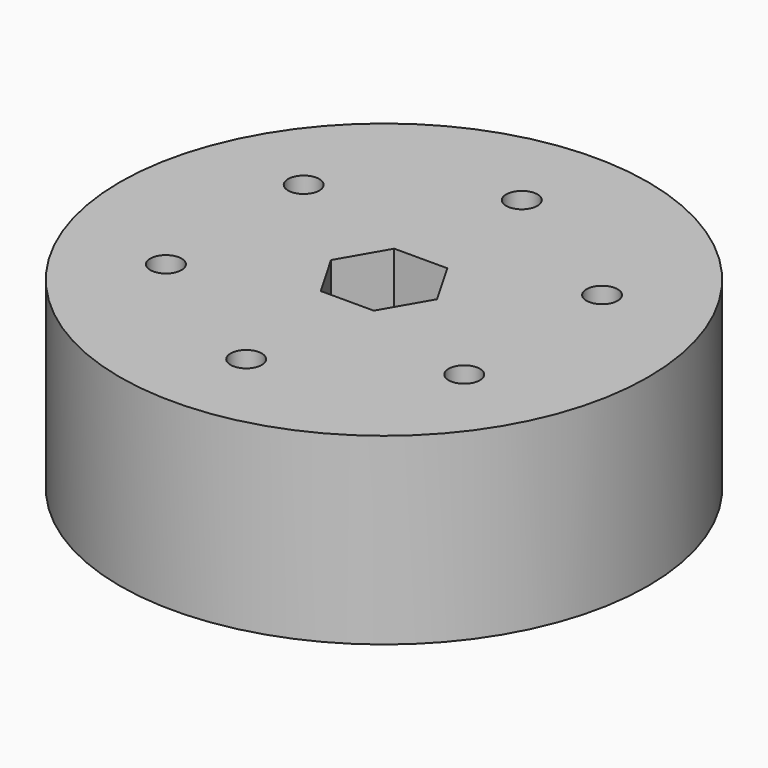
from build123d import *

# Parameters (mm, degrees)
F0_R     = 36.5125
F0_R_2   = 2.159
F1_DEPTH = 25.4


with BuildPart() as f1:
    # F0 (on Top) → F1 (new body)
    with BuildSketch(Plane.XY):
        Circle(F0_R)
        with Locations((-20.62223, -11.90625)):
            Circle(F0_R_2, mode=Mode.SUBTRACT)
        with Locations((0, -23.8125)):
            Circle(F0_R_2, mode=Mode.SUBTRACT)
        with Locations((20.62223, -11.90625)):
            Circle(F0_R_2, mode=Mode.SUBTRACT)
        with Locations((-20.62223, 11.90625)):
            Circle(F0_R_2, mode=Mode.SUBTRACT)
        Polygon((7.332348, 0), (3.666174, -6.35), (-3.666174, -6.35), (-7.332348, 0), (-3.666174, 6.35), (3.666174, 6.35), align=None, mode=Mode.SUBTRACT)
        with Locations((20.62223, 11.90625)):
            Circle(F0_R_2, mode=Mode.SUBTRACT)
        with Locations((0, 23.8125)):
            Circle(F0_R_2, mode=Mode.SUBTRACT)
    extrude(amount=F1_DEPTH)


solid = f1.part
